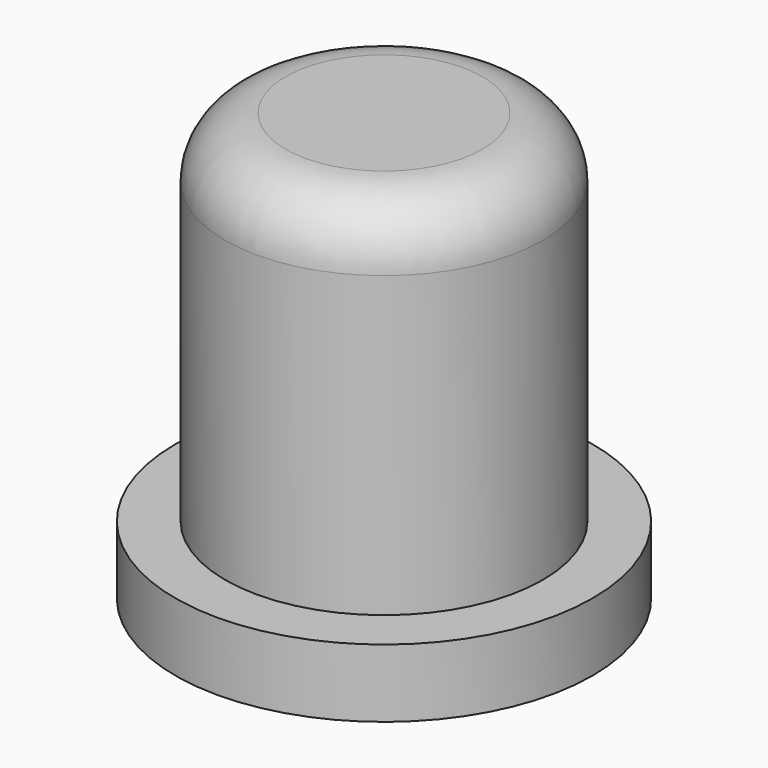
from build123d import *

# Parameters (mm, degrees)
SKETCH_R     = 5.334
PAD_DEPTH    = 12.065
SKETCH001_R  = 7.003821
PAD001_DEPTH = 2.286
SKETCH002_R  = 4.572
POCKET_DEPTH = 3.302
FILLET_R     = 2.032


with BuildPart() as part:
    # Sketch → Pad (new body)
    with BuildSketch(Plane.XY):
        Circle(SKETCH_R)
    extrude(amount=PAD_DEPTH)

    # Sketch001 → Pad001 (new body)
    with BuildSketch(Plane(origin=(0, 0, 0), x_dir=(1, 0, 0), z_dir=(0, 0, -1))):
        Circle(SKETCH001_R)
    extrude(amount=PAD001_DEPTH)

    # Sketch002 → Pocket (cut)
    with BuildSketch(Plane(origin=(0, 0, -2.286), x_dir=(1, 0, 0), z_dir=(0, 0, -1))):
        Circle(SKETCH002_R)
    extrude(amount=-POCKET_DEPTH, mode=Mode.SUBTRACT)

    # Fillet
    fillet_edges = [part.edges().sort_by_distance(p)[0] for p in [
        (-5.334, 0, 12.065),
    ]]
    fillet(fillet_edges, radius=FILLET_R)


solid = part.part
